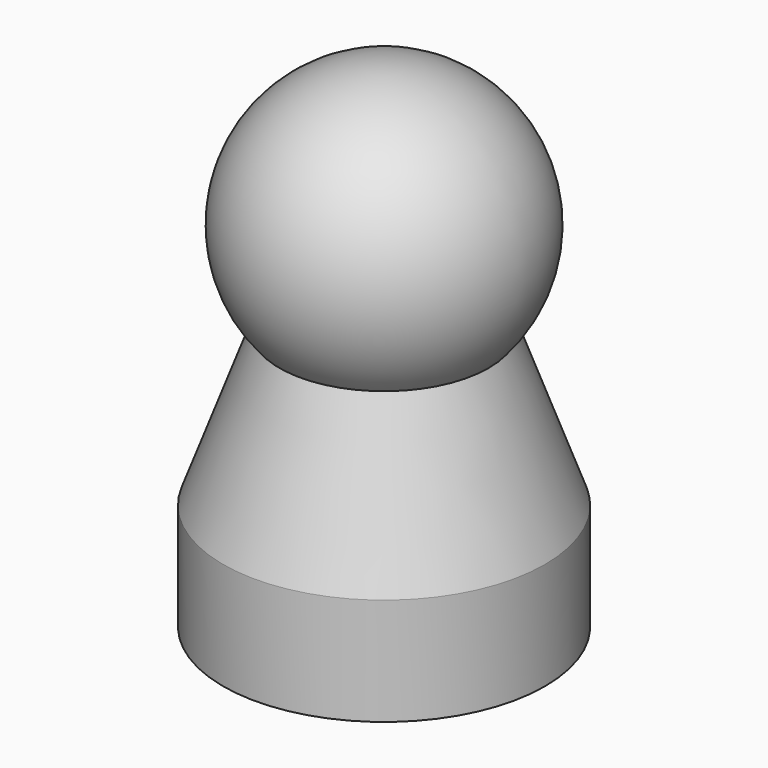
from build123d import *

# Parameters (mm, degrees)
F0_R      = 7.5
F1_DEPTH  = 5
F1_FACE_R = 7.5
F2_DEPTH  = 10
F2_TAPER  = 20


with BuildPart() as f1:
    # F0 (on Top) → F1 (new body)
    with BuildSketch(Plane.XY):
        Circle(F0_R)
    extrude(amount=F1_DEPTH)

    # F1_face (on face) → F2 (join)
    with BuildSketch(Plane.XY.offset(5)):
        Circle(F1_FACE_R)
    extrude(amount=F2_DEPTH, taper=F2_TAPER)

    # F3 (on Front) → F4 (revolve)
    with BuildSketch(Plane.XZ):
        with BuildLine():
            Line((0, 23), (0, 10))
            ThreePointArc((0, 10), (6.5, 16.5), (0, 23))
        make_face()
    revolve(axis=Axis((0, 0, 16.5), (0, 0, 1)))


solid = f1.part
